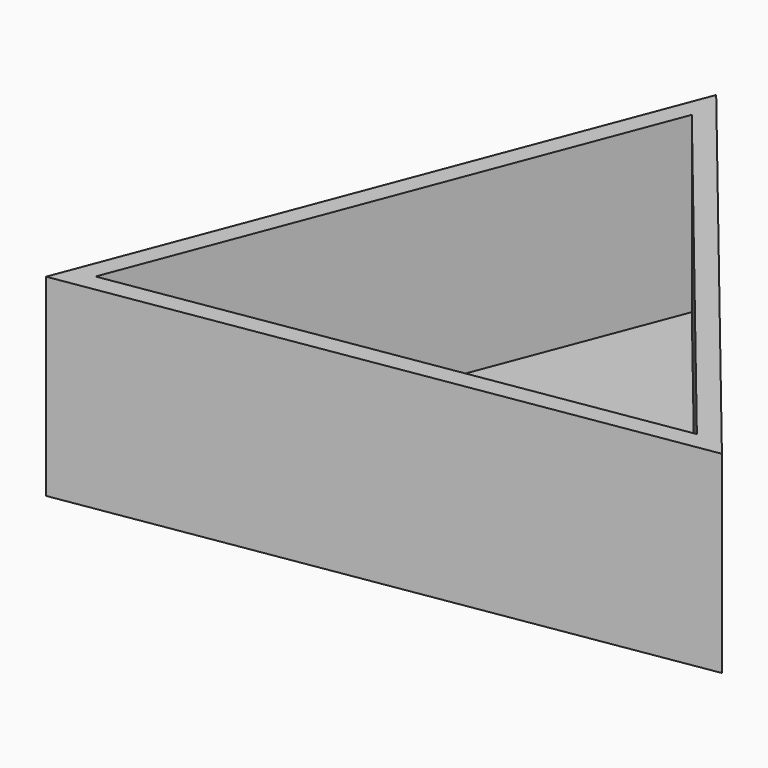
from build123d import *

# Parameters (mm, degrees)
F1_DEPTH = 25
F2_T     = -2.5


with BuildPart() as f1:
    # F0 (on Top) → F1 (new body)
    with BuildSketch(Plane.XY):
        Polygon((-7.163201, 44.811336), (-35.226154, -28.609182), (42.389356, -16.202154), align=None)
    extrude(amount=F1_DEPTH)

    # F2
    f2_openings = [f1.faces().sort_by_distance(p)[0] for p in [
        (0, 0, 25),
    ]]
    offset(amount=F2_T, openings=f2_openings)


solid = f1.part
